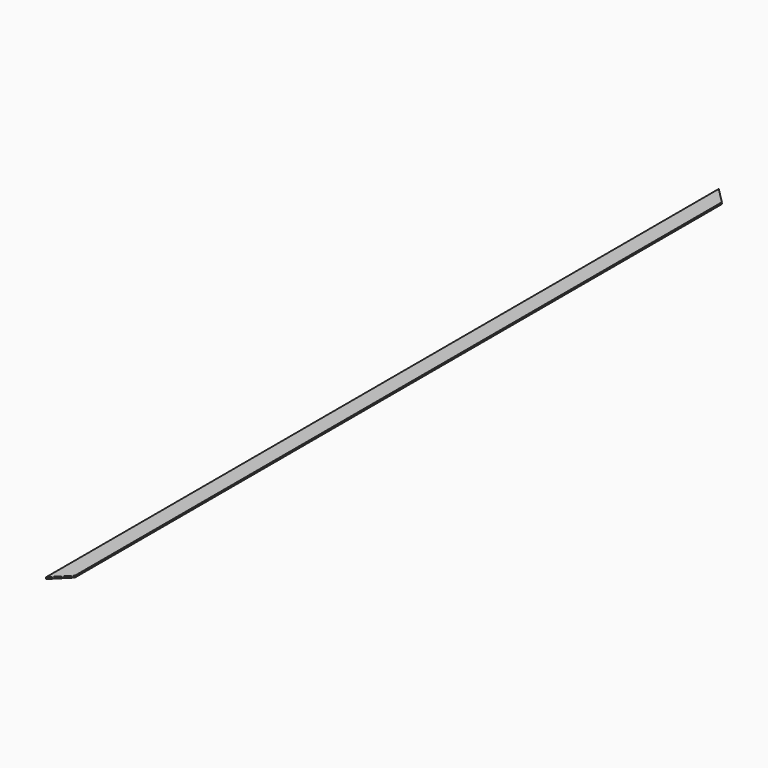
from build123d import *

# Parameters (mm, degrees)
PAD_DEPTH            = 500
POCKET_DEPTH         = 1.001
POCKET001_DEPTH      = 1.001
BODY_PLACEMENT_ANGLE = 90


with BuildPart() as part:
    # Sketch001 → Pad (new body)
    with BuildSketch(Plane.XZ):
        Polygon((0, 0), (0, 9.5), (1, 9.5), (1, 0), (0.8, 0), (0.8, 9.3), (0.2, 9.3), (0.2, 0), align=None)
    extrude(amount=PAD_DEPTH)

    # Sketch → Pocket (cut, through all)
    with BuildSketch(Plane.YZ):
        Polygon((0, 0), (0, 9.5), (-9.5, 0), align=None)
    extrude(amount=POCKET_DEPTH, mode=Mode.SUBTRACT)

    # Sketch002 → Pocket001 (cut, through all)
    with BuildSketch(Plane.YZ):
        Polygon((-500, 0), (-490.5, 0), (-500, 9.5), align=None)
    extrude(amount=POCKET001_DEPTH, mode=Mode.SUBTRACT)


with BuildPart() as part_1:
    # Body placement: moved
    add(part.part.moved(Location((14.046315, -5.921231, 0))).rotate(Axis((14.046315, -5.921231, 0), (0, -1, 0)), BODY_PLACEMENT_ANGLE))


solid = part_1.part
